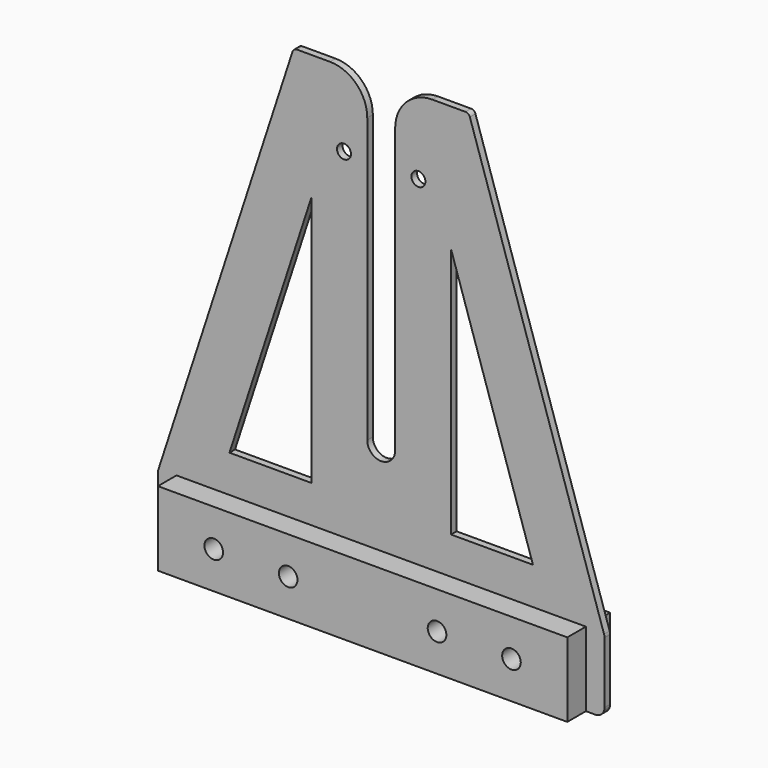
from build123d import *

# Parameters (mm, degrees)
F0_R     = 3.175
F0_R_2   = 2.38125
F1_DEPTH = 2.38125
F2_W     = 139.7
F2_H     = 25.4
F2_R     = 3.175
F3_DEPTH = 7.9375
F4_DEPTH = 10.31875


with BuildPart() as f1:
    # F0 (on Front) → F1 (new body)
    with BuildSketch(Plane.XZ):
        with BuildLine():
            ThreePointArc((-76.2, -80.16875), (-75.270064, -82.413814), (-73.025, -83.34375))
            Line((-73.025, -83.34375), (73.025, -83.34375))
            ThreePointArc((73.025, -83.34375), (75.270064, -82.413814), (76.2, -80.16875))
            Line((76.2, -80.16875), (76.2, -59.188689))
            ThreePointArc((76.2, -59.188689), (76.160675, -58.690527), (76.043675, -58.204705))
            Line((76.043675, -58.204705), (30.260863, 82.248242))
            ThreePointArc((30.260863, 82.248242), (29.684027, 83.041006), (28.751525, 83.34375))
            Line((28.751525, 83.34375), (17.4625, 83.34375))
            ThreePointArc((17.4625, 83.34375), (8.482244, 79.624006), (4.7625, 70.64375))
            Line((4.7625, 70.64375), (4.7625, -26.19375))
            ThreePointArc((4.7625, -26.19375), (0, -30.95625), (-4.7625, -26.19375))
            Line((-4.7625, -26.19375), (-4.7625, 70.64375))
            ThreePointArc((-4.7625, 70.64375), (-8.482244, 79.624006), (-17.4625, 83.34375))
            Line((-17.4625, 83.34375), (-28.751525, 83.34375))
            ThreePointArc((-28.751525, 83.34375), (-29.684027, 83.041006), (-30.260863, 82.248242))
            Line((-30.260863, 82.248242), (-76.043675, -58.204705))
            ThreePointArc((-76.043675, -58.204705), (-76.160675, -58.690527), (-76.2, -59.188689))
            Line((-76.2, -59.188689), (-76.2, -80.16875))
        make_face()
        with Locations((-50.8, -70.64375)):
            Circle(F0_R, mode=Mode.SUBTRACT)
        with Locations((-25.4, -70.64375)):
            Circle(F0_R, mode=Mode.SUBTRACT)
        Polygon((-51.782331, -45.24375), (-23.8125, 40.562362), (-23.8125, -45.24375), align=None, mode=Mode.SUBTRACT)
        with Locations((25.4, -70.64375)):
            Circle(F0_R, mode=Mode.SUBTRACT)
        with Locations((50.8, -70.64375)):
            Circle(F0_R, mode=Mode.SUBTRACT)
        Polygon((51.782331, -45.24375), (23.8125, -45.24375), (23.8125, 40.562362), align=None, mode=Mode.SUBTRACT)
        with Locations((-12.7, 57.94375)):
            Circle(F0_R_2, mode=Mode.SUBTRACT)
        with Locations((12.7, 57.94375)):
            Circle(F0_R_2, mode=Mode.SUBTRACT)
    extrude(amount=F1_DEPTH)


with BuildPart() as f3:
    # F2 (on face) → F3 (new body)
    with BuildSketch(Plane.XZ.offset(2.38125)):
        with Locations((0, -70.64375)):
            Rectangle(F2_W, F2_H)
        with Locations((-50.8, -70.64375)):
            Circle(F2_R, mode=Mode.SUBTRACT)
        with Locations((-25.4, -70.64375)):
            Circle(F2_R, mode=Mode.SUBTRACT)
        with Locations((25.4, -70.64375)):
            Circle(F2_R, mode=Mode.SUBTRACT)
        with Locations((50.8, -70.64375)):
            Circle(F2_R, mode=Mode.SUBTRACT)
    extrude(amount=F3_DEPTH)


with BuildPart() as f4:
    # F2 (on face) → F4 (new body)
    with BuildSketch(Plane.XZ.offset(2.38125)):
        with Locations((0, -70.64375)):
            Rectangle(F2_W, F2_H)
        with Locations((-50.8, -70.64375)):
            Circle(F2_R, mode=Mode.SUBTRACT)
        with Locations((-25.4, -70.64375)):
            Circle(F2_R, mode=Mode.SUBTRACT)
        with Locations((25.4, -70.64375)):
            Circle(F2_R, mode=Mode.SUBTRACT)
        with Locations((50.8, -70.64375)):
            Circle(F2_R, mode=Mode.SUBTRACT)
    extrude(amount=-F4_DEPTH)


solid = Compound([f1.part, f3.part, f4.part])
